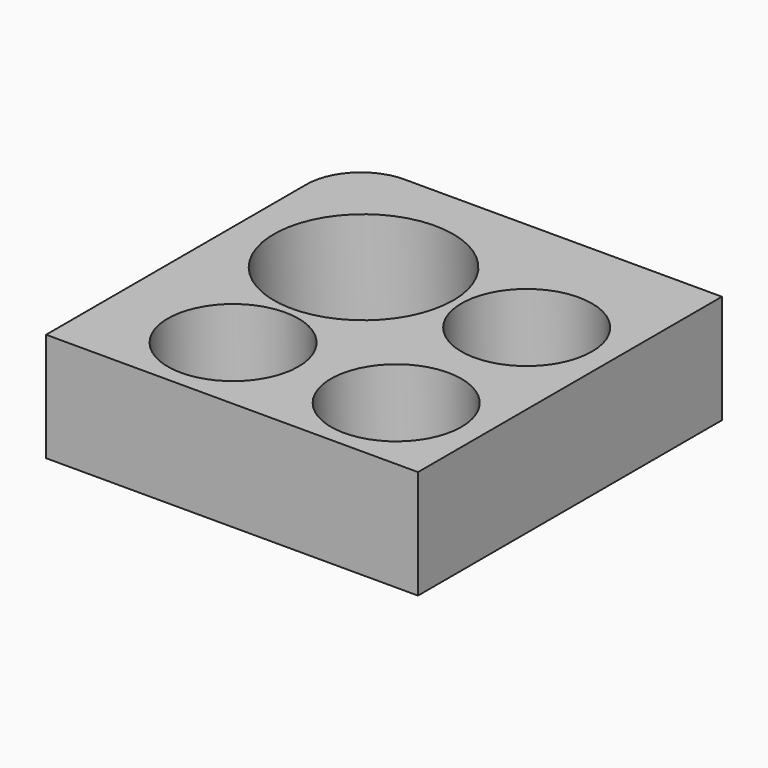
from build123d import *

# Parameters (mm, degrees)
F1_DEPTH = 25
F2_R     = 6
F2_R_2   = 8.25
F2_R_3   = 8
F3_DEPTH = 20
F5_DEPTH = 25.001
F6_W     = 34.932942614
F6_H     = 15
F7_DEPTH = 34.2048565129


with BuildPart() as f1:
    # F0 (on Top) → F1 (new body)
    with BuildSketch(Plane.XY):
        with BuildLine():
            Line((-58.75, -42.5), (58.75, -42.5))
            ThreePointArc((58.75, -42.5), (62.2855339059, -41.0355339059), (63.75, -37.5))
            Line((63.75, -37.5), (63.75, 37.5))
            ThreePointArc((63.75, 37.5), (62.2855339059, 41.0355339059), (58.75, 42.5))
            Line((58.75, 42.5), (-58.75, 42.5))
            ThreePointArc((-58.75, 42.5), (-62.2855339059, 41.0355339059), (-63.75, 37.5))
            Line((-63.75, 37.5), (-63.75, -37.5))
            ThreePointArc((-63.75, -37.5), (-62.2855339059, -41.0355339059), (-58.75, -42.5))
        make_face()
    extrude(amount=F1_DEPTH)

    # F2 (on face) → F3 (cut)
    with BuildSketch(Plane.XY.offset(25)):
        with Locations((-52.5, 15)):
            Circle(F2_R)
        with Locations((-52.5, 0)):
            Circle(F2_R)
        with Locations((-52.5, -15)):
            Circle(F2_R)
        with Locations((-37.5, 30)):
            Circle(F2_R)
        with Locations((-37.5, 15)):
            Circle(F2_R)
        with Locations((-37.5, 0)):
            Circle(F2_R)
        with Locations((-37.5, -15)):
            Circle(F2_R)
        with Locations((-37.5, -30)):
            Circle(F2_R)
        with Locations((-22.5, 30)):
            Circle(F2_R)
        with Locations((-22.5, 15)):
            Circle(F2_R)
        with Locations((-22.5, 0)):
            Circle(F2_R)
        with Locations((-22.5, -15)):
            Circle(F2_R)
        with Locations((-22.5, -30)):
            Circle(F2_R)
        with Locations((-7.5, 30)):
            Circle(F2_R)
        with Locations((-7.5, 15)):
            Circle(F2_R)
        with Locations((-7.5, 0)):
            Circle(F2_R)
        with Locations((-7.5, -15)):
            Circle(F2_R)
        with Locations((-7.5, -30)):
            Circle(F2_R)
        with Locations((7.5, 30)):
            Circle(F2_R)
        with Locations((7.5, 15)):
            Circle(F2_R)
        with Locations((7.5, 0)):
            Circle(F2_R)
        with Locations((7.5, -15)):
            Circle(F2_R)
        with Locations((7.5, -30)):
            Circle(F2_R)
        with Locations((22.5, 30)):
            Circle(F2_R)
        with Locations((22.5, 15)):
            Circle(F2_R)
        with Locations((22.5, 0)):
            Circle(F2_R)
        with Locations((22.5, -15)):
            Circle(F2_R)
        with Locations((22.5, -30)):
            Circle(F2_R)
        with Locations((37.5, 30)):
            Circle(F2_R)
        with Locations((37.5, 15)):
            Circle(F2_R)
        with Locations((37.5, 0)):
            Circle(F2_R)
        with Locations((37.5, -15)):
            Circle(F2_R)
        with Locations((37.5, -30)):
            Circle(F2_R)
        with Locations((52.5, 15)):
            Circle(F2_R)
        with Locations((52.5, 0)):
            Circle(F2_R)
        with Locations((52.5, -15)):
            Circle(F2_R)
        with Locations((-52.5, 30)):
            Circle(F2_R_2)
        with Locations((-52.5, -30)):
            Circle(F2_R_3)
        with Locations((52.5, 30)):
            Circle(F2_R_3)
        with Locations((52.5, -30)):
            Circle(F2_R_3)
    extrude(amount=-F3_DEPTH, mode=Mode.SUBTRACT)

    # F4 (on face) → F5 (cut, through all)
    with BuildSketch(Plane.XY.offset(25)):
        Polygon((69.5764049888, -59.449698776), (69.5764049888, 48.7273074687), (-29.5461434871, 48.7273074687), (-29.5461434871, 7.567057386), (-74.2632374167, 7.567057386), (-74.2632374167, 4.9460288137), (-74.2632374167, -59.449698776), align=None)
    extrude(amount=-F5_DEPTH, mode=Mode.SUBTRACT)

    # F6 (on face) → F7 (cut, through all)
    with BuildSketch(Plane.YZ.offset(-29.5461434871)):
        with Locations((25.033528693, 7.5)):
            Rectangle(F6_W, F6_H)
    extrude(amount=-F7_DEPTH, mode=Mode.SUBTRACT)


solid = f1.part
